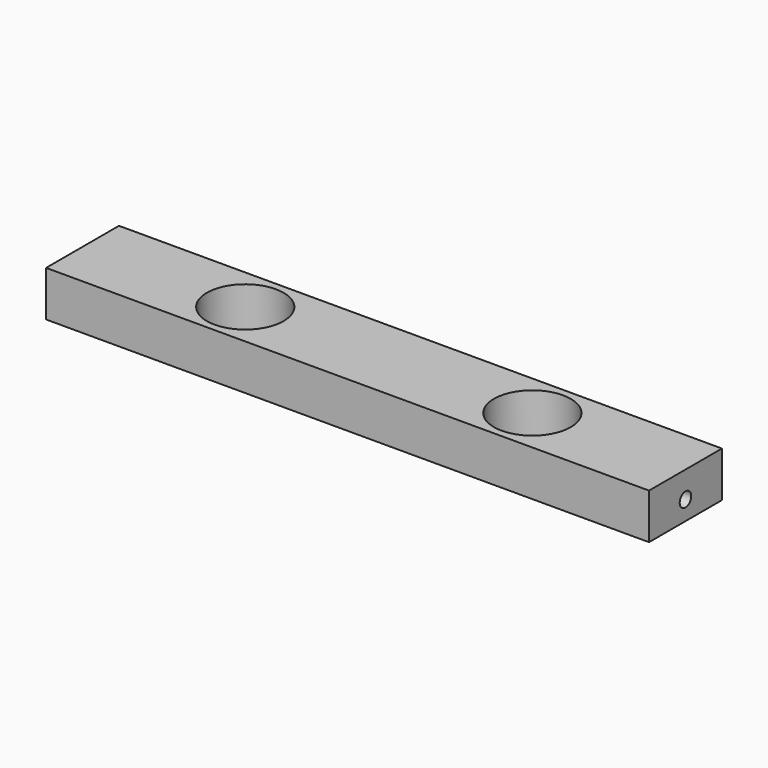
from build123d import *

# Parameters (mm, degrees)
F0_W     = 126
F0_H     = 19.04
F1_DEPTH = 9.5
F2_R     = 1.5
F3_DEPTH = 5
F4_R     = 1.5
F5_DEPTH = 5
F6_R     = 8.02
F7_DEPTH = 9.5


with BuildPart() as f1:
    # F0 (on Top) → F1 (new body)
    with BuildSketch(Plane.XY):
        Rectangle(F0_W, F0_H)
    extrude(amount=F1_DEPTH)

    # F2 (on face) → F3 (cut)
    with BuildSketch(Plane(origin=(-63, 0, 0), x_dir=(0, -1, 0), z_dir=(-1, 0, 0))):
        with Locations((0, 4)):
            Circle(F2_R)
    extrude(amount=-F3_DEPTH, mode=Mode.SUBTRACT)

    # F4 (on face) → F5 (cut)
    with BuildSketch(Plane.YZ.offset(63)):
        with Locations((0, 4)):
            Circle(F4_R)
    extrude(amount=-F5_DEPTH, mode=Mode.SUBTRACT)

    # F6 (on face) → F7 (cut)
    with BuildSketch(Plane.XY.offset(9.5)):
        with Locations((-29, 0)):
            Circle(F6_R)
        with Locations((31, 0)):
            Circle(F6_R)
    extrude(amount=-F7_DEPTH, mode=Mode.SUBTRACT)


solid = f1.part
